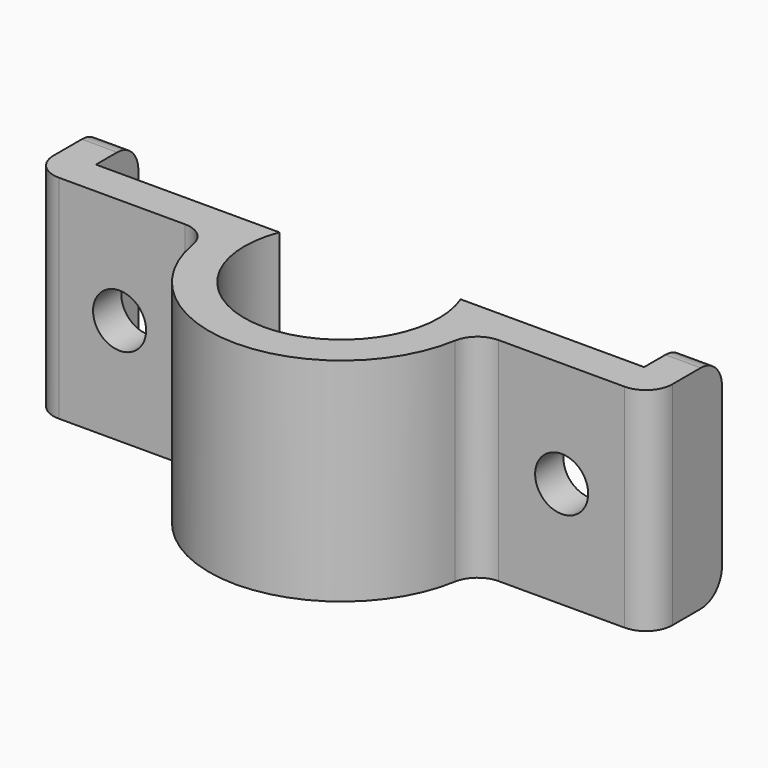
from build123d import *

# Parameters (mm, degrees)
F1_DEPTH = 76.2
F2_R     = 9.525
F3_DEPTH = 25.4
F4_R     = 9.525


with BuildPart() as f1:
    # F0 (on Top) → F1 (new body)
    with BuildSketch(Plane.XY):
        with BuildLine():
            Line((-41.285193, 12.7), (-41.285193, 31.75))
            Line((-41.285193, 31.75), (-53.985193, 31.75))
            Line((-53.985193, 31.75), (-53.985193, 9.525))
            ThreePointArc((-53.985193, 9.525), (-51.195385, 2.789808), (-44.460193, 0))
            Line((-44.460193, 0), (0.789147, 0))
            ThreePointArc((0.789147, 0), (6.937508, -2.250161), (10.180923, -7.9375))
            ThreePointArc((10.180923, -7.9375), (57.139807, -47.625), (104.09869, -7.9375))
            ThreePointArc((104.09869, -7.9375), (107.342106, -2.250161), (113.490467, 0))
            Line((113.490467, 0), (158.739807, 0))
            ThreePointArc((158.739807, 0), (165.474999, 2.789808), (168.264807, 9.525))
            Line((168.264807, 9.525), (168.264807, 31.75))
            Line((168.264807, 31.75), (155.564807, 31.75))
            Line((155.564807, 31.75), (155.564807, 12.7))
            Line((155.564807, 12.7), (89.673875, 12.7))
            ThreePointArc((89.673875, 12.7), (57.139807, -34.925), (24.605738, 12.7))
            Line((24.605738, 12.7), (-41.285193, 12.7))
        make_face()
    extrude(amount=F1_DEPTH)

    # F2 (on face) → F3 (cut)
    with BuildSketch(Plane.XZ):
        with Locations((136.115137, 38.1)):
            Circle(F2_R)
        with Locations((-22.6314, 38.1)):
            Circle(F2_R)
    extrude(amount=-F3_DEPTH, mode=Mode.SUBTRACT)

    # F4
    f4_edges = [f1.edges().sort_by_distance(p)[0] for p in [
        (-47.635193, 31.75, 76.2),
        (-47.635193, 31.75, 0),
        (161.914807, 31.75, 0),
        (161.914807, 31.75, 76.2),
    ]]
    fillet(f4_edges, radius=F4_R)


solid = f1.part
